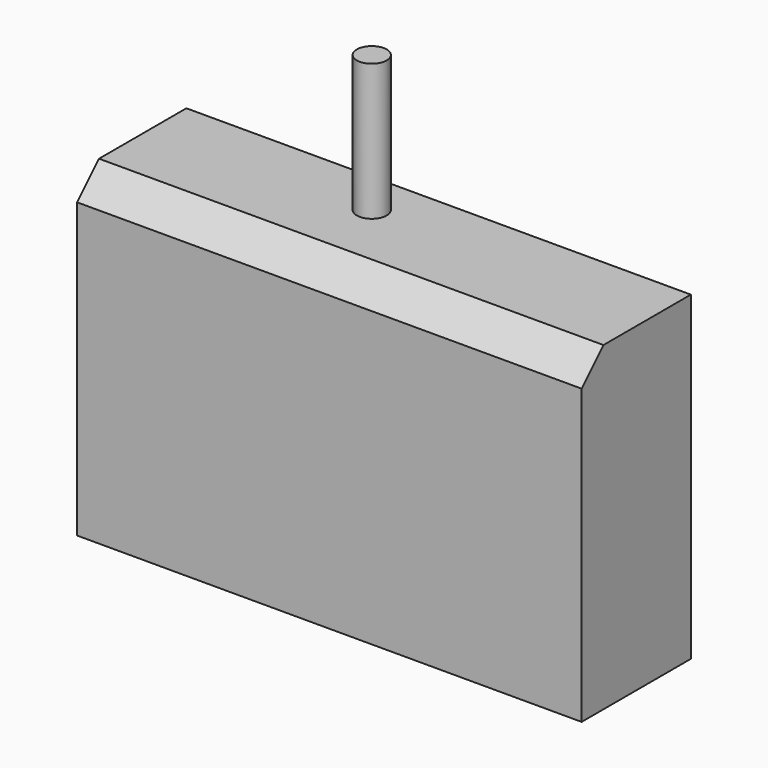
from build123d import *

# Parameters (mm, degrees)
F0_W     = 93.8496552408
F0_H     = 59.6632584929
F1_DEPTH = 25.4
F2_SIZE  = 5.08
F3_R     = 2.779114803
F4_DEPTH = 25.4


with BuildPart() as f1:
    # F0 (on Front) → F1 (new body)
    with BuildSketch(Plane.XZ):
        with Locations((-7.3980521411, -0.1858584583)):
            Rectangle(F0_W, F0_H)
    extrude(amount=F1_DEPTH)

    # F2
    f2_edges = [f1.edges().sort_by_distance(p)[0] for p in [
        (-7.398052, -25.4, 29.645771),
    ]]
    chamfer(f2_edges, length=F2_SIZE)

    # F3 (on face) → F4 (join)
    with BuildSketch(Plane.XY.offset(29.6457707882)):
        with Locations((-13.2972076535, -8.1705600023)):
            Circle(F3_R)
    extrude(amount=F4_DEPTH)


solid = f1.part
